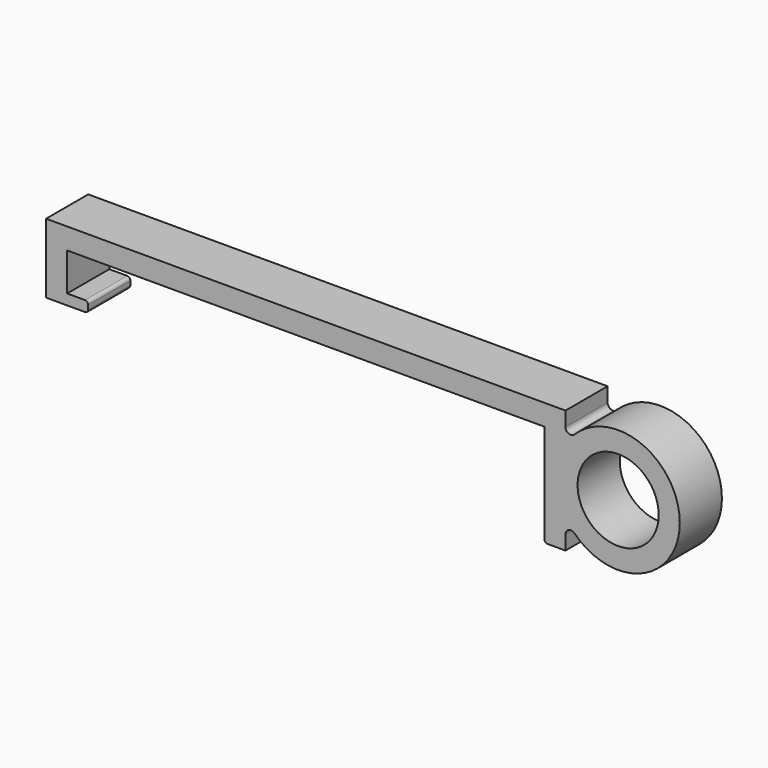
from build123d import *

# Parameters (mm, degrees)
F0_R     = 3.85
F1_DEPTH = 5
F2_R     = 0.3


with BuildPart() as f1:
    # F0 (on Front) → F1 (new body)
    with BuildSketch(Plane.XZ):
        with BuildLine():
            Line((-22.65, 0), (22.65, 0))
            Line((22.65, 0), (22.65, -9.7))
            Line((22.65, -9.7), (24.65, -9.7))
            Line((24.65, -9.7), (24.65, -8.330234))
            ThreePointArc((24.65, -8.330234), (24.959167, -7.868084), (25.504331, -7.97746))
            ThreePointArc((25.504331, -7.97746), (35.5, -3.85), (25.504331, 0.27746))
            ThreePointArc((25.504331, 0.27746), (24.959167, 0.168084), (24.65, 0.630234))
            Line((24.65, 0.630234), (24.65, 2))
            Line((24.65, 2), (-24.65, 2))
            Line((-24.65, 2), (-24.65, -3.472538))
            Line((-24.65, -3.472538), (-24.65, -4.6))
            Line((-24.65, -4.6), (-20.65, -4.6))
            Line((-20.65, -4.6), (-20.65, -3.6))
            Line((-20.65, -3.6), (-22.65, -3.6))
            Line((-22.65, -3.6), (-22.65, 0))
        make_face()
        with Locations((29.65, -3.85)):
            Circle(F0_R, mode=Mode.SUBTRACT)
    extrude(amount=F1_DEPTH)

    # F2
    f2_edges = [f1.edges().sort_by_distance(p)[0] for p in [
        (-20.65, -2.5, -3.6),
        (-20.65, -2.5, -4.6),
        (22.65, -2.5, -9.7),
    ]]
    fillet(f2_edges, radius=F2_R)


solid = f1.part
